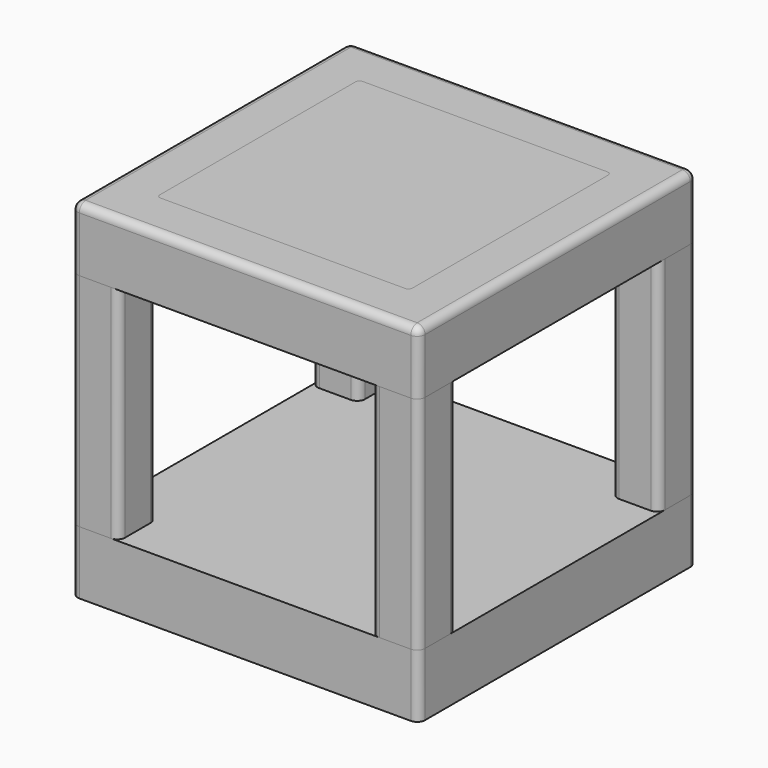
from build123d import *

# Parameters (mm, degrees)
F0_W     = 558.8
F0_H     = 101.6
F1_DEPTH = 558.8
F2_W     = 76.2
F2_H     = 76.2
F3_DEPTH = 355.6
F6_DEPTH = 101.6
F7_R     = 12.7
F7_2_R   = 12.7
F7_3_R   = 12.7
F7_4_R   = 12.7
F7_5_R   = 12.7
F7_6_R   = 12.7
F9_DEPTH = 6.35


with BuildPart() as f1:
    # F0 (on Front) → F1 (new body)
    with BuildSketch(Plane.XZ):
        Rectangle(F0_W, F0_H)
    extrude(amount=F1_DEPTH)


with BuildPart() as f3:
    # F2 (on face) → F3 (new body)
    with BuildSketch(Plane.XY.offset(50.8)):
        with Locations((-241.3, -38.1)):
            Rectangle(F2_W, F2_H)
    extrude(amount=F3_DEPTH)

    # F7#6
    f7_6_edges = [f3.edges().sort_by_distance(p)[0] for p in [
        (-203.2, 0, 228.6),
        (-279.4, 0, 228.6),
        (-279.4, -76.2, 228.6),
        (-203.2, -76.2, 228.6),
    ]]
    fillet(f7_6_edges, radius=F7_6_R)


with BuildPart() as f3b:
    # F2 (on face) → F3, piece 2 (new body)
    with BuildSketch(Plane.XY.offset(50.8)):
        with Locations((241.3, -38.1)):
            Rectangle(F2_W, F2_H)
    extrude(amount=F3_DEPTH)

    # F7#5
    f7_5_edges = [f3b.edges().sort_by_distance(p)[0] for p in [
        (279.4, -76.2, 228.6),
        (279.4, 0, 228.6),
        (203.2, 0, 228.6),
        (203.2, -76.2, 228.6),
    ]]
    fillet(f7_5_edges, radius=F7_5_R)


with BuildPart() as f3c:
    # F2 (on face) → F3, piece 3 (new body)
    with BuildSketch(Plane.XY.offset(50.8)):
        with Locations((241.3, -520.7)):
            Rectangle(F2_W, F2_H)
    extrude(amount=F3_DEPTH)

    # F7
    f7_edges = [f3c.edges().sort_by_distance(p)[0] for p in [
        (279.4, -558.8, 228.6),
        (203.2, -558.8, 228.6),
        (279.4, -482.6, 228.6),
        (203.2, -482.6, 228.6),
    ]]
    fillet(f7_edges, radius=F7_R)


with BuildPart() as f3d:
    # F2 (on face) → F3, piece 4 (new body)
    with BuildSketch(Plane.XY.offset(50.8)):
        with Locations((-241.3, -520.7)):
            Rectangle(F2_W, F2_H)
    extrude(amount=F3_DEPTH)

    # F7#2
    f7_2_edges = [f3d.edges().sort_by_distance(p)[0] for p in [
        (-279.4, -558.8, 228.6),
        (-203.2, -558.8, 228.6),
        (-279.4, -482.6, 228.6),
        (-203.2, -482.6, 228.6),
    ]]
    fillet(f7_2_edges, radius=F7_2_R)


with BuildPart() as f4_1:
    # F4: copy of F1
    add(f1.part.moved(Location((0, 0, 457.2))))

    # F5 (on face) → F6 (cut)
    with BuildSketch(Plane.XY.offset(508)):
        with BuildLine():
            Line((-196.85, -482.6), (196.85, -482.6))
            ThreePointArc((196.85, -482.6), (201.3401280605, -480.7401280605), (203.2, -476.25))
            Line((203.2, -476.25), (203.2, -82.55))
            ThreePointArc((203.2, -82.55), (201.3401280605, -78.0598719395), (196.85, -76.2))
            Line((196.85, -76.2), (-196.85, -76.2))
            ThreePointArc((-196.85, -76.2), (-201.3401280605, -78.0598719395), (-203.2, -82.55))
            Line((-203.2, -82.55), (-203.2, -476.25))
            ThreePointArc((-203.2, -476.25), (-201.3401280605, -480.7401280605), (-196.85, -482.6))
        make_face()
    extrude(amount=-F6_DEPTH, mode=Mode.SUBTRACT)

    # F7#4
    f7_4_edges = [f4_1.edges().sort_by_distance(p)[0] for p in [
        (-279.4, -558.8, 457.2),
        (279.4, -558.8, 457.2),
        (0, -558.8, 508),
        (279.4, -279.4, 508),
        (0, 0, 508),
        (279.4, 0, 457.2),
        (-279.4, 0, 457.2),
        (-279.4, -279.4, 508),
    ]]
    fillet(f7_4_edges, radius=F7_4_R)


with BuildPart() as f1_1:
    add(f1.part)

    # F7#3
    f7_3_edges = [f1_1.edges().sort_by_distance(p)[0] for p in [
        (-279.4, -558.8, 0),
        (279.4, -558.8, 0),
        (279.4, 0, 0),
        (-279.4, 0, 0),
    ]]
    fillet(f7_3_edges, radius=F7_3_R)


with BuildPart() as f9:
    # F8 (on face) → F9 (new body)
    with BuildSketch(Plane.XY.offset(508)):
        with BuildLine():
            ThreePointArc((-203.2, -476.25), (-201.3401280605, -480.7401280605), (-196.85, -482.6))
            Line((-196.85, -482.6), (196.85, -482.6))
            ThreePointArc((196.85, -482.6), (201.3401280605, -480.7401280605), (203.2, -476.25))
            Line((203.2, -476.25), (203.2, -82.55))
            ThreePointArc((203.2, -82.55), (201.3401280605, -78.0598719395), (196.85, -76.2))
            Line((196.85, -76.2), (-196.85, -76.2))
            ThreePointArc((-196.85, -76.2), (-201.3401280605, -78.0598719395), (-203.2, -82.55))
            Line((-203.2, -82.55), (-203.2, -476.25))
        make_face()
    extrude(amount=-F9_DEPTH)


solid = Compound([f3.part, f3b.part, f3c.part, f3d.part, f4_1.part, f1_1.part, f9.part])
